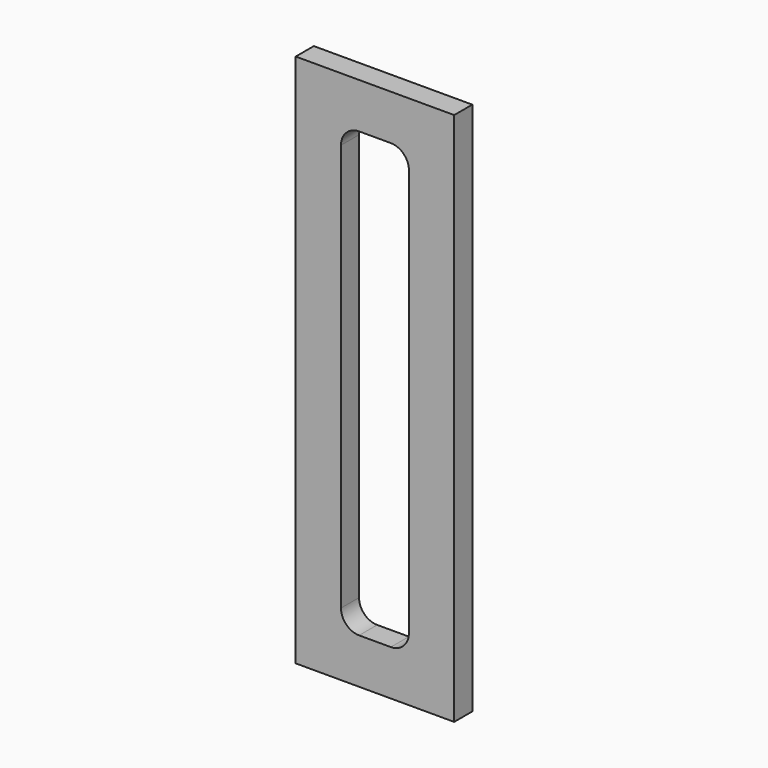
from build123d import *

# Parameters (mm, degrees)
F0_W     = 175
F0_H     = 590
F1_DEPTH = 25


with BuildPart() as f1:
    # F0 (on Front) → F1 (new body)
    with BuildSketch(Plane.XZ):
        Rectangle(F0_W, F0_H)
        with BuildLine():
            ThreePointArc((-37.5, 225), (-31.642136, 239.142136), (-17.5, 245))
            Line((-17.5, 245), (17.5, 245))
            ThreePointArc((17.5, 245), (31.642136, 239.142136), (37.5, 225))
            Line((37.5, 225), (37.5, -225))
            ThreePointArc((37.5, -225), (31.642136, -239.142136), (17.5, -245))
            Line((17.5, -245), (-17.5, -245))
            ThreePointArc((-17.5, -245), (-31.642136, -239.142136), (-37.5, -225))
            Line((-37.5, -225), (-37.5, 225))
        make_face(mode=Mode.SUBTRACT)
    extrude(amount=F1_DEPTH)


solid = f1.part
